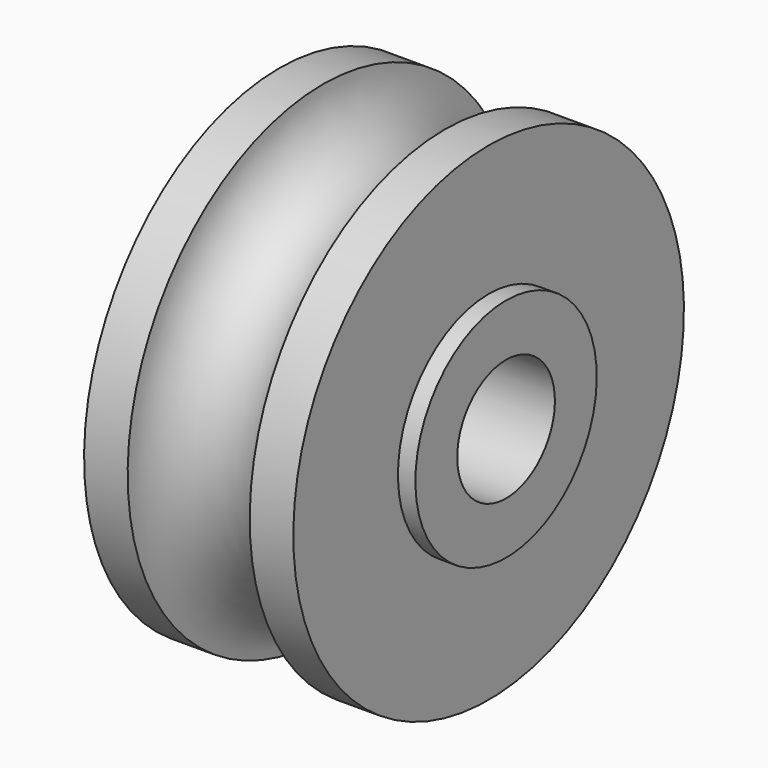
from build123d import *


with BuildPart() as part:
    # Sketch → Revolution (revolve)
    with BuildSketch(Plane.XZ):
        with BuildLine():
            Line((-14, 7), (14, 7))
            Line((14, 7), (14, 13))
            Line((14, 13), (12, 13))
            Line((12, 13), (12, 28))
            Line((12, 28), (7, 28))
            ThreePointArc((-7, 28), (0, 21), (7, 28))
            Line((-7, 28), (-12, 28))
            Line((-12, 28), (-12, 13))
            Line((-12, 13), (-14, 13))
            Line((-14, 13), (-14, 7))
        make_face()
    revolve(axis=Axis((0, 0, 0), (1, 0, 0)))


solid = part.part
